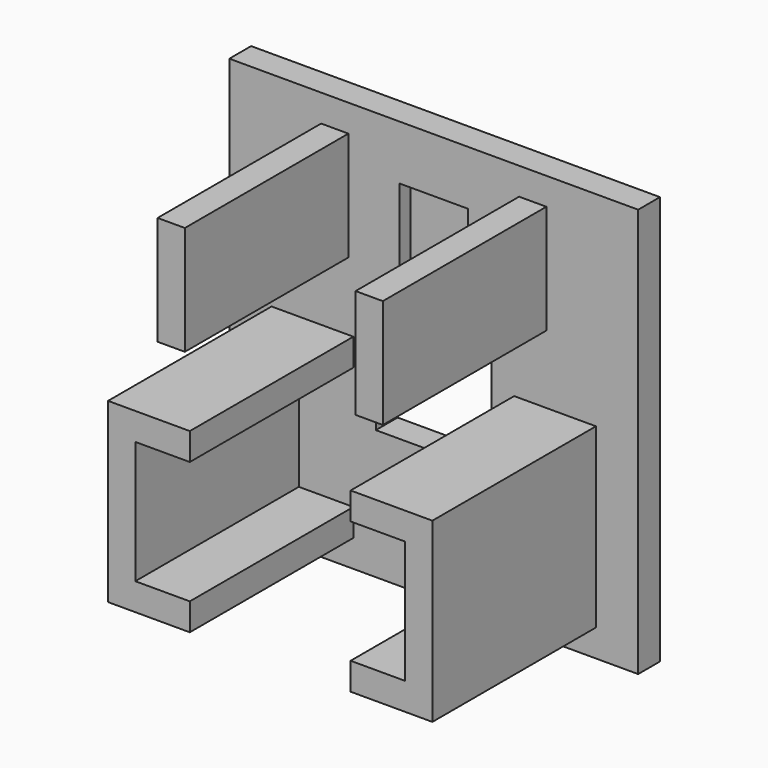
from build123d import *

# Parameters (mm, degrees)
F0_W     = 30
F0_H     = 30
F1_DEPTH = 2
F3_DEPTH = 15
F4_W     = 8.5
F4_H     = 8.5
F5_DEPTH = 25
F6_W     = 2
F6_H     = 8
F7_DEPTH = 15
F8_W     = 5
F8_H     = 8
F9_DEPTH = 1


with BuildPart() as f1:
    # F0 (on Front) → F1 (new body)
    with BuildSketch(Plane.XZ):
        Rectangle(F0_W, F0_H)
    extrude(amount=F1_DEPTH)

    # F2 (on face) → F3 (join)
    with BuildSketch(Plane.XZ.offset(2)):
        Polygon((5.9, -11), (5.9, -13), (11.9, -13), (11.9, 0), (5.9, 0), (5.9, -2), (9.9, -2), (9.9, -11), align=None)
        Polygon((-9.9, -2), (-5.9, -2), (-5.9, 0), (-11.9, 0), (-11.9, -13), (-5.9, -13), (-5.9, -11), (-9.9, -11), align=None)
    extrude(amount=F3_DEPTH)

    # F4 (on face) → F5 (cut)
    with BuildSketch(Plane.XZ.offset(2)):
        with Locations((0, -1.25)):
            Rectangle(F4_W, F4_H)
    extrude(amount=-F5_DEPTH, mode=Mode.SUBTRACT)

    # F6 (on face) → F7 (join)
    with BuildSketch(Plane.XZ.offset(2)):
        with Locations((-7.263201, 9)):
            Rectangle(F6_W, F6_H)
        with Locations((7.263201, 9)):
            Rectangle(F6_W, F6_H)
    extrude(amount=F7_DEPTH)

    # F8 (on face) → F9 (cut)
    with BuildSketch(Plane.XZ.offset(2)):
        with Locations((0, 7)):
            Rectangle(F8_W, F8_H)
    extrude(amount=-F9_DEPTH, mode=Mode.SUBTRACT)


solid = f1.part
